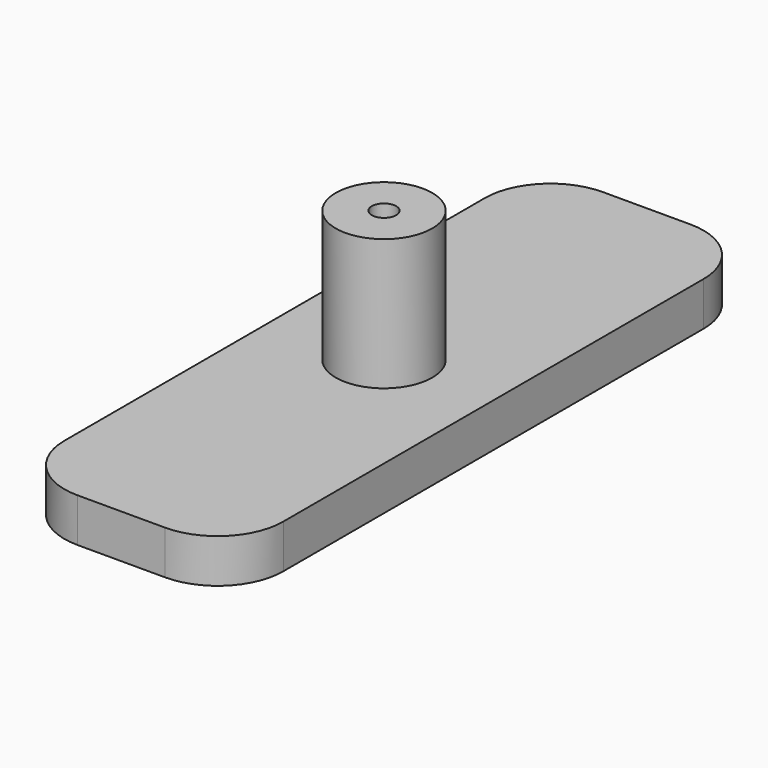
from build123d import *

# Parameters (mm, degrees)
F0_W     = 10
F0_H     = 30
F1_DEPTH = 2
F2_R     = 2.202482
F2_R_2   = 0.557721
F3_DEPTH = 6
F4_R     = 3


with BuildPart() as f1:
    # F0 (on Top) → F1 (new body)
    with BuildSketch(Plane.XY):
        Rectangle(F0_W, F0_H)
    extrude(amount=F1_DEPTH)

    # F2 (on face) → F3 (join)
    with BuildSketch(Plane.XY.offset(2)):
        Circle(F2_R)
        Circle(F2_R_2, mode=Mode.SUBTRACT)
    extrude(amount=F3_DEPTH)

    # F4
    f4_edges = [f1.edges().sort_by_distance(p)[0] for p in [
        (5, 15, 1),
        (5, -15, 1),
        (-5, -15, 1),
        (-5, 15, 1),
    ]]
    fillet(f4_edges, radius=F4_R)


solid = f1.part
